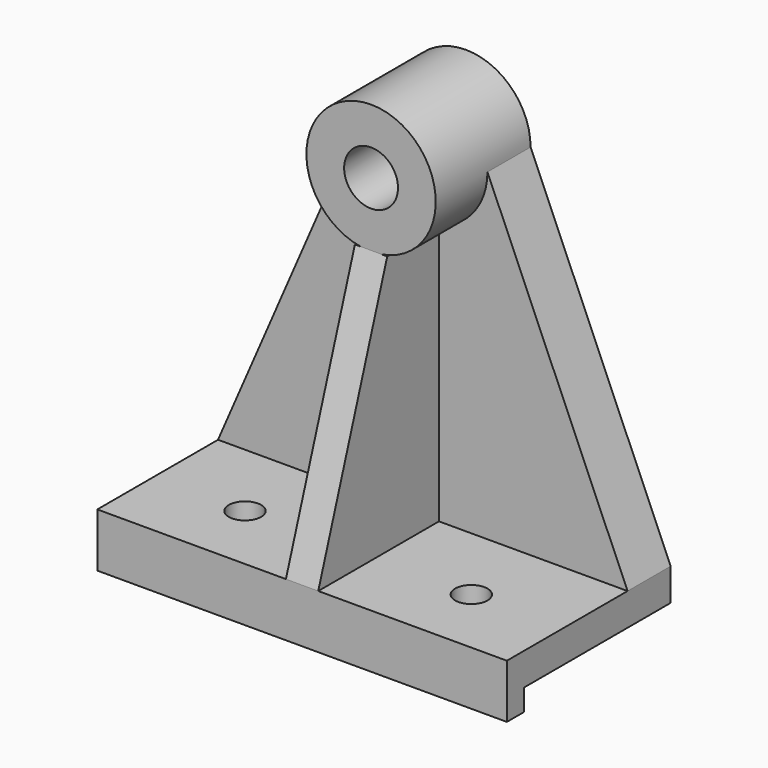
from build123d import *

# Parameters (mm, degrees)
F0_W     = 38
F0_H     = 19
F0_R     = 1.5
F1_DEPTH = 3
F2_W     = 2
F2_H     = 2
F3_DEPTH = 38
F5_DEPTH = 5
F6_DEPTH = 11
F8_DEPTH = 1.5


with BuildPart() as f1:
    # F0 (on Top) → F1 (new body)
    with BuildSketch(Plane.XY):
        Rectangle(F0_W, F0_H)
        with Locations((-10.5, -3)):
            Circle(F0_R, mode=Mode.SUBTRACT)
        with Locations((10.5, -3)):
            Circle(F0_R, mode=Mode.SUBTRACT)
    extrude(amount=F1_DEPTH)

    # F2 (on face) → F3 (join)
    with BuildSketch(Plane.YZ.offset(19)):
        with Locations((-8.5, -1)):
            Rectangle(F2_W, F2_H)
    extrude(amount=-F3_DEPTH)

    # F4 (on face) → F5 (join)
    with BuildSketch(Plane(origin=(0, 9.5, 0), x_dir=(-1, 0, 0), z_dir=(0, 1, 0))):
        with BuildLine():
            Line((19, 3), (6, 33))
            ThreePointArc((6, 33), (0, 27), (-6, 33))
            Line((-6, 33), (-19, 3))
            Line((-19, 3), (19, 3))
        make_face()
    extrude(amount=-F5_DEPTH)

    # F4 (on face) → F6 (join)
    with BuildSketch(Plane(origin=(0, 9.5, 0), x_dir=(-1, 0, 0), z_dir=(0, 1, 0))):
        with BuildLine():
            ThreePointArc((-2.5, 33), (0, 35.5), (2.5, 33))
            Line((2.5, 33), (6, 33))
            ThreePointArc((6, 33), (0, 39), (-6, 33))
            Line((-6, 33), (-2.5, 33))
        make_face()
        with BuildLine():
            Line((6, 33), (2.5, 33))
            ThreePointArc((2.5, 33), (0, 30.5), (-2.5, 33))
            Line((-2.5, 33), (-6, 33))
            ThreePointArc((-6, 33), (0, 27), (6, 33))
        make_face()
    extrude(amount=-F6_DEPTH)

    # F7 (on Right) → F8 (join, symmetric)
    with BuildSketch(Plane.YZ):
        Polygon((-1.5, 27.080068), (-9.5, 3), (4.5, 3), (4.5, 27.080068), align=None)
    extrude(amount=F8_DEPTH, both=True)


solid = f1.part
